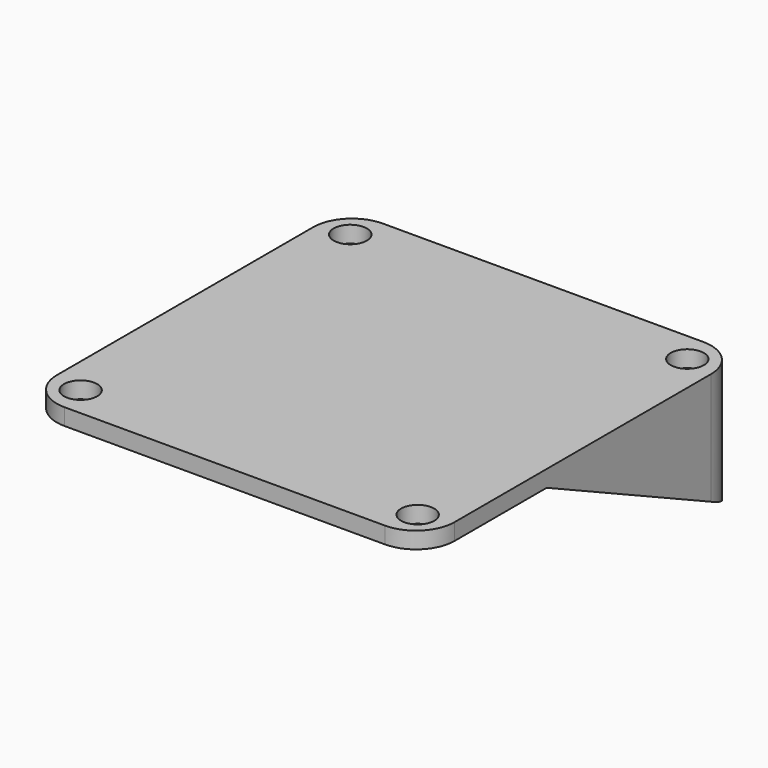
from build123d import *

# Parameters (mm, degrees)
F0_R     = 1.5
F0_R_2   = 2
F1_DEPTH = 1.5
F3_DEPTH = 36
F4_W     = 13.25
F4_H     = 3.5
F5_DEPTH = 25
F6_DEPTH = 25
F7_DEPTH = 1.5
F8_R     = 3.5


with BuildPart() as f1:
    # F0 (on Top) → F1 (new body)
    with BuildSketch(Plane.XY):
        Polygon((-4.012614, -5.998938), (-5.462614, -5.998938), (-5.462614, -11.098938), (-5.462614, -36.898938), (-5.462614, -41.998938), (-4.012614, -41.998938), (29.087386, -41.998938), (30.537386, -41.998938), (30.537386, -36.898938), (30.537386, -11.098938), (30.537386, -5.998938), (29.087386, -5.998938), align=None)
        with Locations((-2.712614, -39.248938)):
            Circle(F0_R, mode=Mode.SUBTRACT)
        with Locations((27.787386, -39.248938)):
            Circle(F0_R, mode=Mode.SUBTRACT)
        with Locations((-2.712614, -8.748938)):
            Circle(F0_R_2, mode=Mode.SUBTRACT)
        with Locations((27.787386, -8.748938)):
            Circle(F0_R_2, mode=Mode.SUBTRACT)
    extrude(amount=F1_DEPTH)

    # F2 (on face) → F3 (join)
    with BuildSketch(Plane(origin=(-5.462614, 0, 0), x_dir=(0, -1, 0), z_dir=(-1, 0, 0))):
        Polygon((28.094722, 0), (5.998938, 0), (5.998938, -10.303433), align=None)
    extrude(amount=-F3_DEPTH)

    # F4 (on face) → F5 (cut)
    with BuildSketch(Plane(origin=(0, -5.998938, 0), x_dir=(-1, 0, 0), z_dir=(0, 1, 0))):
        with Locations((-7.778386, -1.75)):
            Rectangle(F4_W, F4_H)
    extrude(amount=-F5_DEPTH, mode=Mode.SUBTRACT)

    # F0 (on Top) → F6 (cut)
    with BuildSketch(Plane.XY):
        with Locations((27.787386, -8.748938)):
            Circle(F0_R_2)
        with Locations((27.787386, -8.748938)):
            Circle(F0_R, mode=Mode.SUBTRACT)
        with Locations((-2.712614, -8.748938)):
            Circle(F0_R_2)
        with Locations((-2.712614, -8.748938)):
            Circle(F0_R, mode=Mode.SUBTRACT)
        with Locations((-2.712614, -8.748938)):
            Circle(F0_R)
        with Locations((27.787386, -8.748938)):
            Circle(F0_R)
    extrude(amount=-F6_DEPTH, mode=Mode.SUBTRACT)

    # F0 (on Top) → F7 (join)
    with BuildSketch(Plane.XY):
        with Locations((27.787386, -8.748938)):
            Circle(F0_R_2)
        with Locations((27.787386, -8.748938)):
            Circle(F0_R, mode=Mode.SUBTRACT)
        with Locations((-2.712614, -8.748938)):
            Circle(F0_R_2)
        with Locations((-2.712614, -8.748938)):
            Circle(F0_R, mode=Mode.SUBTRACT)
    extrude(amount=F7_DEPTH)

    # F8
    f8_edges = [f1.edges().sort_by_distance(p)[0] for p in [
        (-5.462614, -5.998938, -4.401717),
        (-5.462614, -41.998938, 0.75),
        (30.537386, -5.998938, -4.401717),
        (30.537386, -41.998938, 0.75),
    ]]
    fillet(f8_edges, radius=F8_R)


solid = f1.part
